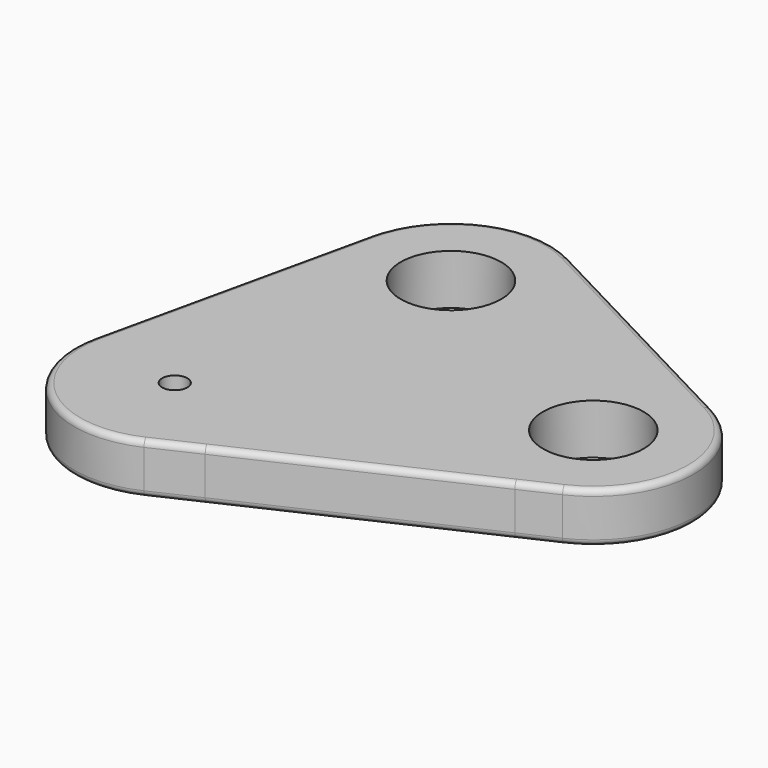
from build123d import *

# Parameters (mm, degrees)
F0_R     = 6.35
F0_R_2   = 3.175
F1_DEPTH = 6.35
F2_R     = 0.762
F4_D     = 3.175


with BuildPart() as f1:
    # F0 (on Top) → F1 (new body)
    with BuildSketch(Plane.XY):
        with BuildLine():
            ThreePointArc((-15.4277360093, -33.1291600779), (-17.6097258518, -31.6297541594), (-19.7516389471, -30.0736352458))
            Line((-19.7516389471, -30.0736352458), (-20.0273010704, -31.3041983899))
            ThreePointArc((-20.0273010704, -31.3041983899), (-15.605527233, -43.9673113737), (-2.2926258159, -45.6022946054))
            Line((-2.2926258159, -45.6022946054), (3.3420161223, -42.9899532533))
            ThreePointArc((3.3420161223, -42.9899532533), (-0.5573553186, -41.3437618471), (-4.3842812821, -39.5355357964))
            ThreePointArc((-4.3842812821, -39.5355357964), (-9.1948370721, -40.2356556442), (-13.0909002079, -37.32837051))
            ThreePointArc((-13.0909002079, -37.32837051), (-14.2898816566, -35.2457737279), (-15.4277360093, -33.1291600779))
        make_face()
        with BuildLine():
            ThreePointArc((5.8890733938, 11.2520582367), (-4.6857632411, 11.8039664032), (-12.0029711474, 4.1495401716))
            ThreePointArc((-12.0029711474, 4.1495401716), (-9.4049707621, -13.9914505961), (-2.1779859288, -30.8323485013))
            ThreePointArc((-2.1779859288, -30.8323485013), (-1.4791469298, -35.6407535094), (-4.3842812821, -39.5355357964))
            ThreePointArc((-4.3842812821, -39.5355357964), (-0.5573553186, -41.3437618471), (3.3420161223, -42.9899532533))
            Line((3.3420161223, -42.9899532533), (31.8875731001, -29.7556182717))
            Line((31.8875731001, -29.7556182717), (36.2849774034, -27.7168869328))
            ThreePointArc((36.2849774034, -27.7168869328), (43.6394950275, -16.5000431331), (36.8322335447, -4.9428935964))
            Line((36.8322335447, -4.9428935964), (5.8890733938, 11.2520582367))
        make_face()
        Circle(F0_R, mode=Mode.SUBTRACT)
        with BuildLine():
            ThreePointArc((37.2931601509, -16.1949518331), (35.5866457226, -20.5262959369), (31.384328105, -22.5296081644))
            ThreePointArc((31.384328105, -22.5296081644), (26.2996745793, -11.8636077292), (37.2931601509, -16.1949518331))
        make_face(mode=Mode.SUBTRACT)
        with BuildLine():
            ThreePointArc((-18.7919287035, -25.7894628669), (-17.199620286, -29.5004662895), (-15.4277360093, -33.1291600779))
            ThreePointArc((-15.4277360093, -33.1291600779), (-10.0074027219, -36.507133329), (-4.3842812821, -39.5355357964))
            ThreePointArc((-4.3842812821, -39.5355357964), (-1.4791469298, -35.6407535094), (-2.1779859288, -30.8323485013))
            ThreePointArc((-2.1779859288, -30.8323485013), (-9.4049707621, -13.9914505961), (-12.0029711474, 4.1495401716))
            ThreePointArc((-12.0029711474, 4.1495401716), (-12.2172281013, 3.4683335365), (-12.3928580021, 2.7761611158))
            Line((-12.3928580021, 2.7761611158), (-18.7919287035, -25.7894628669))
        make_face()
        with Locations((-7.6344430684, -34.0803595057)):
            Circle(F0_R_2, mode=Mode.SUBTRACT)
        with BuildLine():
            Line((-18.7919287035, -25.7894628669), (-19.7516389471, -30.0736352458))
            ThreePointArc((-19.7516389471, -30.0736352458), (-17.6097258518, -31.6297541594), (-15.4277360093, -33.1291600779))
            ThreePointArc((-15.4277360093, -33.1291600779), (-17.199620286, -29.5004662895), (-18.7919287035, -25.7894628669))
        make_face()
        with BuildLine():
            ThreePointArc((-4.3842812821, -39.5355357964), (-10.0074027219, -36.507133329), (-15.4277360093, -33.1291600779))
            ThreePointArc((-15.4277360093, -33.1291600779), (-14.2898816566, -35.2457737279), (-13.0909002079, -37.32837051))
            ThreePointArc((-13.0909002079, -37.32837051), (-9.1948370721, -40.2356556442), (-4.3842812821, -39.5355357964))
        make_face()
        with Locations((-7.6344430684, -34.0803595057)):
            Circle(F0_R_2)
    extrude(amount=F1_DEPTH)

    # F2
    f2_edges = [f1.edges().sort_by_distance(p)[0] for p in [
        (-15.605527, -43.967311, 6.35),
        (16.996176, -36.659591, 6.35),
        (16.996176, -36.659591, 0),
        (-15.605527, -43.967311, 0),
    ]]
    fillet(f2_edges, radius=F2_R)

    # F4 (through all)
    with Locations(Plane.XY.offset(6.35)):
        with Locations((-7.6344430684, -34.0803595057)):
            Hole(F4_D / 2)


solid = f1.part
